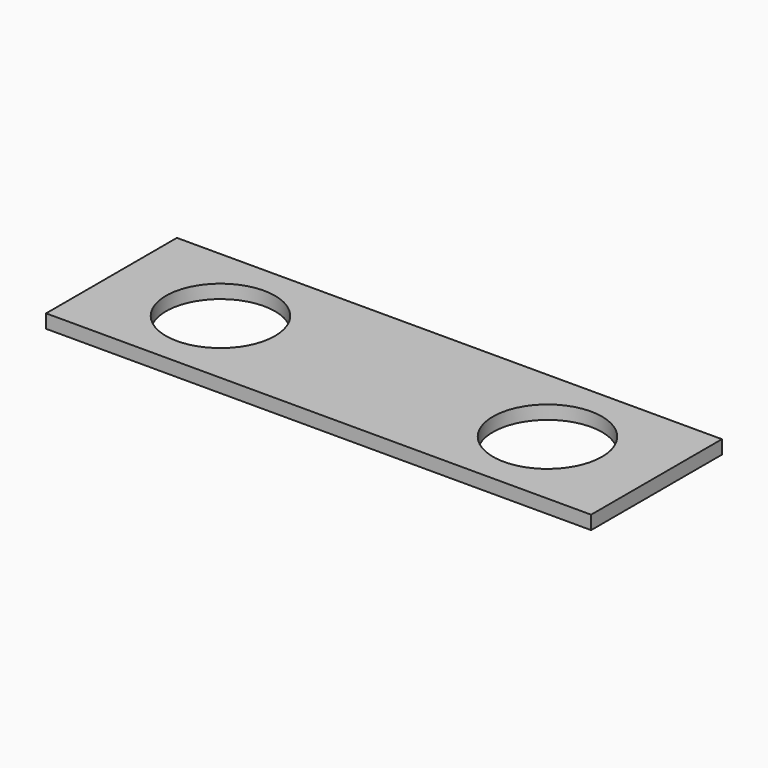
from build123d import *

# Parameters (mm, degrees)
SKETCH_W  = 600
SKETCH_H  = 180
SKETCH_R  = 60
PAD_DEPTH = 15


with BuildPart() as part:
    # Sketch → Pad (new body)
    with BuildSketch(Plane.XY):
        with Locations((300, 90)):
            Rectangle(SKETCH_W, SKETCH_H)
        with Locations((120, 90)):
            Circle(SKETCH_R, mode=Mode.SUBTRACT)
        with Locations((480, 90)):
            Circle(SKETCH_R, mode=Mode.SUBTRACT)
    extrude(amount=PAD_DEPTH)


solid = part.part
